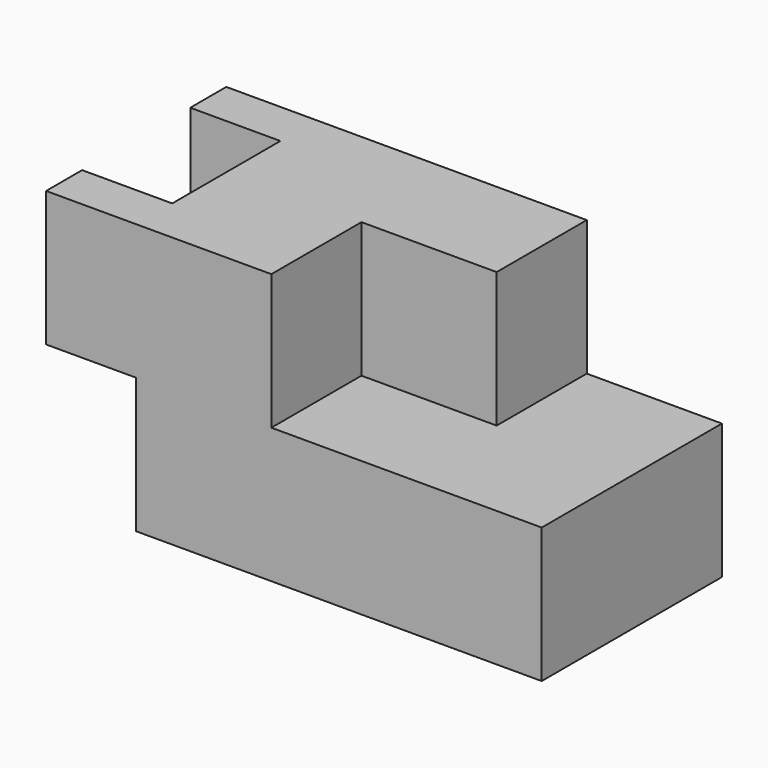
from build123d import *

# Parameters (mm, degrees)
F0_W     = 20
F0_H     = 10
F0_W_2   = 30
F0_H_2   = 25
F1_DEPTH = 30
F2_START = -30
F2_DEPTH = 30


with BuildPart() as f1:
    # F0 (on Top) → F1 (new body)
    with BuildSketch(Plane.XY):
        with Locations((10, 5)):
            Rectangle(F0_W, F0_H)
        with Locations((10, 45)):
            Rectangle(F0_W, F0_H)
        Polygon((20, 10), (20, 0), (50, 0), (50, 25), (50, 50), (20, 50), (20, 40), align=None)
        with Locations((65, 37.5)):
            Rectangle(F0_W_2, F0_H_2)
    extrude(amount=-F1_DEPTH)

    # F0 (on Top) → F2 (join)
    with BuildSketch(Plane.XY.offset(F2_START)):
        Polygon((20, 10), (20, 0), (50, 0), (50, 25), (50, 50), (20, 50), (20, 40), align=None)
        with Locations((65, 37.5)):
            Rectangle(F0_W_2, F0_H_2)
        Polygon((80, 25), (80, 0), (110, 0), (110, 50), (80, 50), align=None)
        with Locations((65, 12.5)):
            Rectangle(F0_W_2, F0_H_2)
    extrude(amount=-F2_DEPTH)


solid = f1.part
